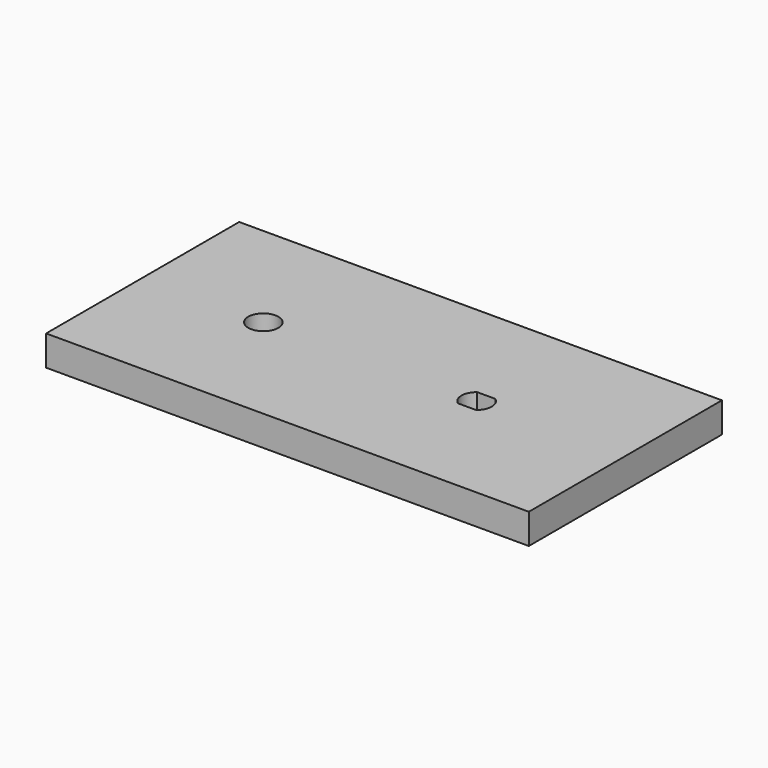
from build123d import *

# Parameters (mm, degrees)
F0_W     = 160
F0_H     = 80
F0_R     = 5
F1_DEPTH = 10


with BuildPart() as f1:
    # F0 (on Top) → F1 (new body)
    with BuildSketch(Plane.XY):
        with Locations((80, 40)):
            Rectangle(F0_W, F0_H)
        with Locations((40, 40)):
            Circle(F0_R, mode=Mode.SUBTRACT)
        with BuildLine():
            ThreePointArc((113.7, 44), (115.7, 40), (113.7, 36))
            Line((113.7, 36), (107.7, 36))
            ThreePointArc((107.7, 36), (105.7, 40), (107.7, 44))
            Line((107.7, 44), (113.7, 44))
        make_face(mode=Mode.SUBTRACT)
    extrude(amount=F1_DEPTH)


solid = f1.part
